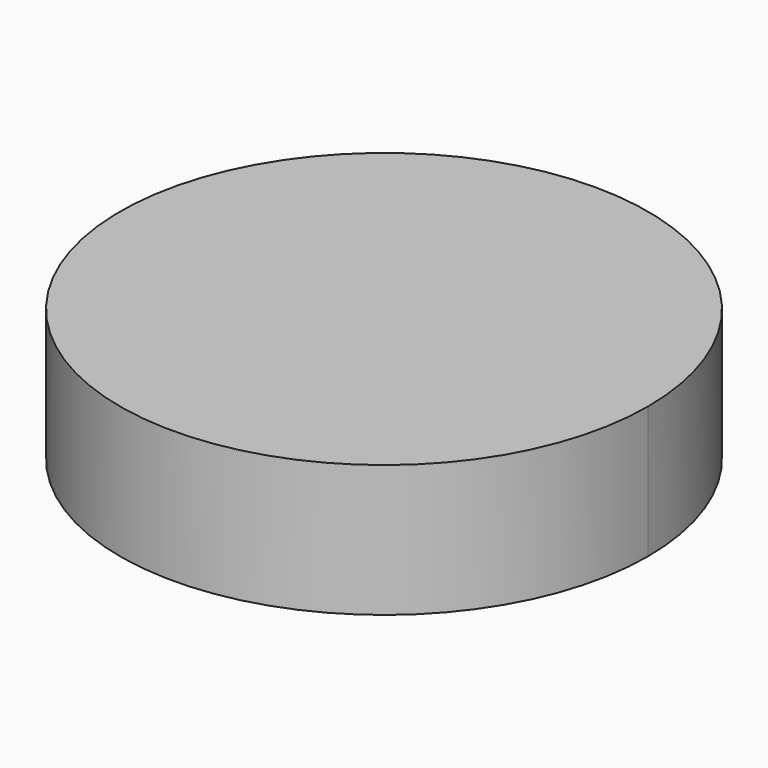
from build123d import *

# Parameters (mm, degrees)
F1_DEPTH = 1.5875


with BuildPart() as f1:
    # F0 (on Top) → F1 (new body)
    with BuildSketch(Plane.XY):
        with BuildLine():
            Line((3.175, 0), (0, 0))
            Line((0, 0), (0, 3.175))
            ThreePointArc((0, 3.175), (-2.245064, -2.245064), (3.175, 0))
        make_face()
        with BuildLine():
            Line((0, 3.175), (0, 0))
            Line((0, 0), (3.175, 0))
            ThreePointArc((3.175, 0), (2.245064, 2.245064), (0, 3.175))
        make_face()
    extrude(amount=F1_DEPTH)


solid = f1.part
